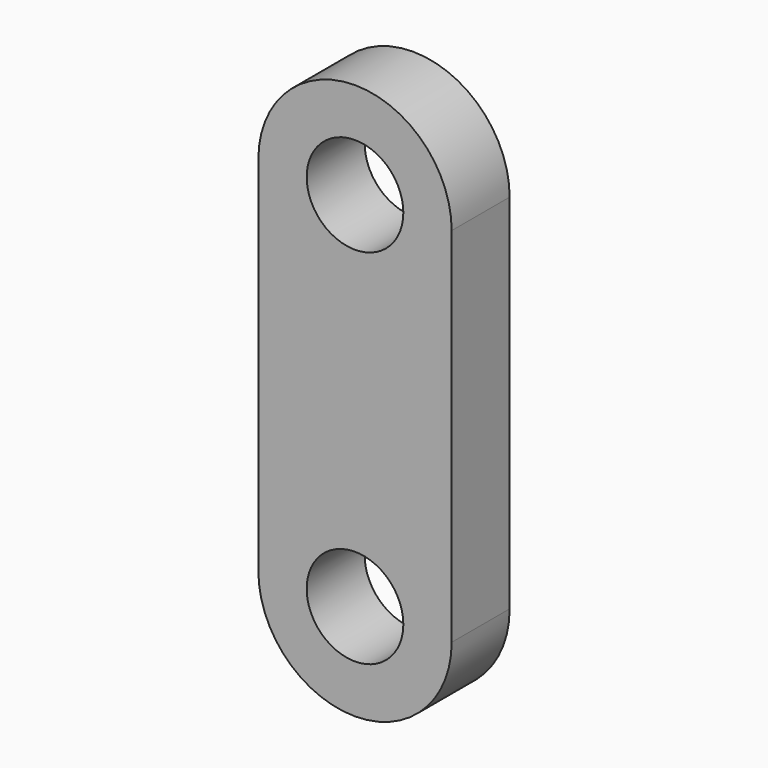
from build123d import *

# Parameters (mm, degrees)
F1_DEPTH = 15
F2_R     = 10
F3_DEPTH = 25


with BuildPart() as f1:
    # F0 (on Front) → F1 (new body)
    with BuildSketch(Plane.XZ):
        with BuildLine():
            ThreePointArc((-20, 75), (0, 55), (20, 75))
            ThreePointArc((20, 75), (0, 95), (-20, 75))
        make_face()
        with BuildLine():
            ThreePointArc((-20, 0), (0, 20), (20, 0))
            Line((20, 0), (20, 75))
            ThreePointArc((20, 75), (0, 55), (-20, 75))
            Line((-20, 75), (-20, 0))
        make_face()
        with BuildLine():
            ThreePointArc((-20, 0), (0, -20), (20, 0))
            ThreePointArc((20, 0), (0, 20), (-20, 0))
        make_face()
    extrude(amount=F1_DEPTH)

    # F2 (on face) → F3 (cut)
    with BuildSketch(Plane.XZ.offset(15)):
        with Locations((0, 75)):
            Circle(F2_R)
        Circle(F2_R)
    extrude(amount=-F3_DEPTH, mode=Mode.SUBTRACT)


solid = f1.part
